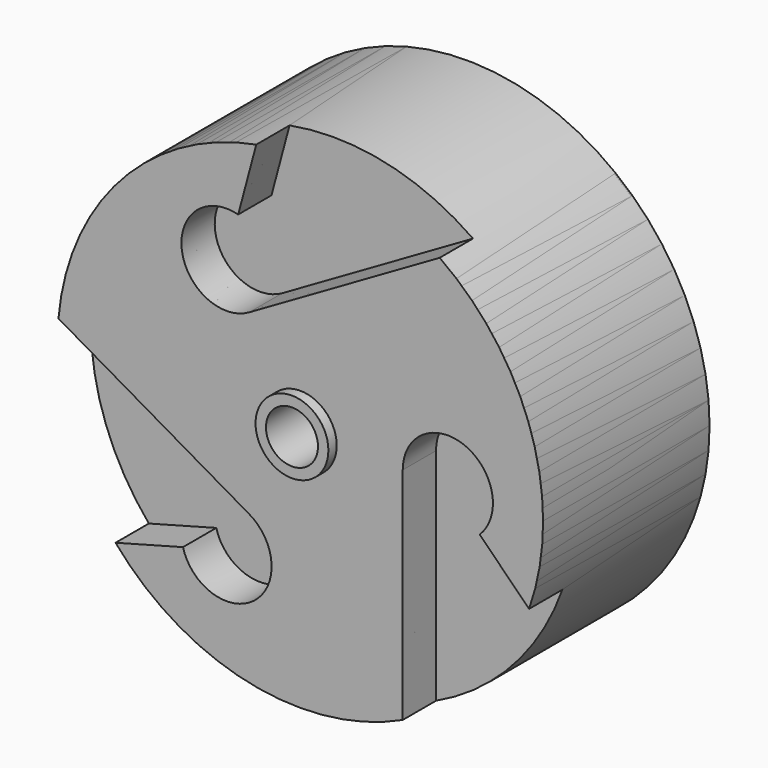
from build123d import *

# Parameters (mm, degrees)
F0_R     = 14
F0_R_2   = 1.5
F1_DEPTH = 12
F2_SIZE2 = 12.124355653
F2_SIZE  = 7
F4_DEPTH = 1
F3_R     = 2.1
F3_R_2   = 1.5
F5_DEPTH = 0.6
F6_COUNT = 3
F7_DEPTH = 3.4


with BuildPart() as f1:
    # F0 (on Front) → F1 (new body)
    with BuildSketch(Plane.XZ):
        Circle(F0_R)
        Circle(F0_R_2, mode=Mode.SUBTRACT)
        Circle(F0_R)
        Circle(F0_R_2, mode=Mode.SUBTRACT)
    extrude(amount=F1_DEPTH)

    # F2
    f2_edges = [f1.edges().sort_by_distance(p)[0] for p in [
        (-1.5, 0, 0),
    ]]
    f2_side = f1.faces().sort_by_distance((-1.5, -6, 0))[0]
    chamfer(f2_edges, length=F2_SIZE, length2=F2_SIZE2, reference=f2_side)

    # F3 (on face) → F4 (join)
    with BuildSketch(Plane.XZ.offset(12)):
        with BuildLine():
            Line((13.1926842468, -4.6854116536), (10.3457502244, -1.8384776311))
            ThreePointArc((10.3457502244, -1.8384776311), (9.5022495174, 2.4020867845), (5.9072725933, 0))
            Line((5.9072725933, 0), (5.9072725933, -12.6926801941))
            ThreePointArc((5.9072725933, -12.6926801941), (10.3552486785, -9.4217209047), (13.1926842468, -4.6854116536))
        make_face()
    extrude(amount=F4_DEPTH)

    # F3 (on face) → F5 (join)
    with BuildSketch(Plane.XZ.offset(12)):
        Circle(F3_R)
        Circle(F3_R_2, mode=Mode.SUBTRACT)
    extrude(amount=F5_DEPTH)


with BuildPart() as f6_1:
    # F6: instance of F1
    add(f1.part.rotate(Axis((0, -12, 0), (0, -1, 0)), 1 * 360 / F6_COUNT))


with BuildPart() as f6_2:
    # F6: instance of F1
    add(f1.part.rotate(Axis((0, -12, 0), (0, -1, 0)), 2 * 360 / F6_COUNT))


with BuildPart() as f7_tool:
    # F4_face (on face) + F6_face (on face) → F7 (new body)
    with BuildSketch(Plane(origin=(8.660490704, -13, -4.6040457016), x_dir=(1, 0, 0), z_dir=(0, -1, 0))):
        with BuildLine():
            Line((-2.7532181107, 4.6040457016), (-2.7532181107, -8.0886344924))
            ThreePointArc((-2.7532181107, -8.0886344924), (1.6947579745, -4.8176752031), (4.5321935429, -0.0813659519))
            Line((4.5321935429, -0.0813659519), (1.6852595204, 2.7655680705))
            ThreePointArc((1.6852595204, 2.7655680705), (0.8417588135, 7.0061324861), (-2.7532181107, 4.6040457016))
        make_face()
    with BuildSketch(Plane(origin=(-8.3174658898, -13, -5.1981821081), x_dir=(1, 0, 0), z_dir=(0, -1, 0))):
        with BuildLine():
            Line((5.3638295931, 0.0823339752), (-5.628353897, 6.4286740722))
            ThreePointArc((-5.628353897, 6.4286740722), (-5.0196081003, 0.9411341423), (-2.3365617528, -3.884311767))
            Line((-2.3365617528, -3.884311767), (1.5524224448, -2.8422615919))
            ThreePointArc((1.5524224448, -2.8422615919), (5.6466093085, -4.2320507594), (5.3638295931, 0.0823339752))
        make_face()
        with BuildLine():
            Line((5.3638295931, 10.3140302409), (16.3560130833, 16.660370338))
            ThreePointArc((16.3560130833, 16.660370338), (11.2992912014, 18.8769509785), (5.7788092855, 18.9660876367))
            Line((5.7788092855, 18.9660876367), (4.7367591104, 15.0771034391))
            ThreePointArc((4.7367591104, 15.0771034391), (1.4860729536, 12.226328191), (5.3638295931, 10.3140302409))
        make_face()
    extrude(amount=-F7_DEPTH)


with BuildPart() as f1_1:
    add(f1.part)

    # F7: cut by f7_tool
    add(f7_tool.part, mode=Mode.SUBTRACT)


with BuildPart() as f6_1_1:
    add(f6_1.part)

    # F7: cut by f7_tool
    add(f7_tool.part, mode=Mode.SUBTRACT)


with BuildPart() as f6_2_1:
    add(f6_2.part)

    # F7: cut by f7_tool
    add(f7_tool.part, mode=Mode.SUBTRACT)


solid = Compound([f1_1.part, f6_1_1.part, f6_2_1.part])
